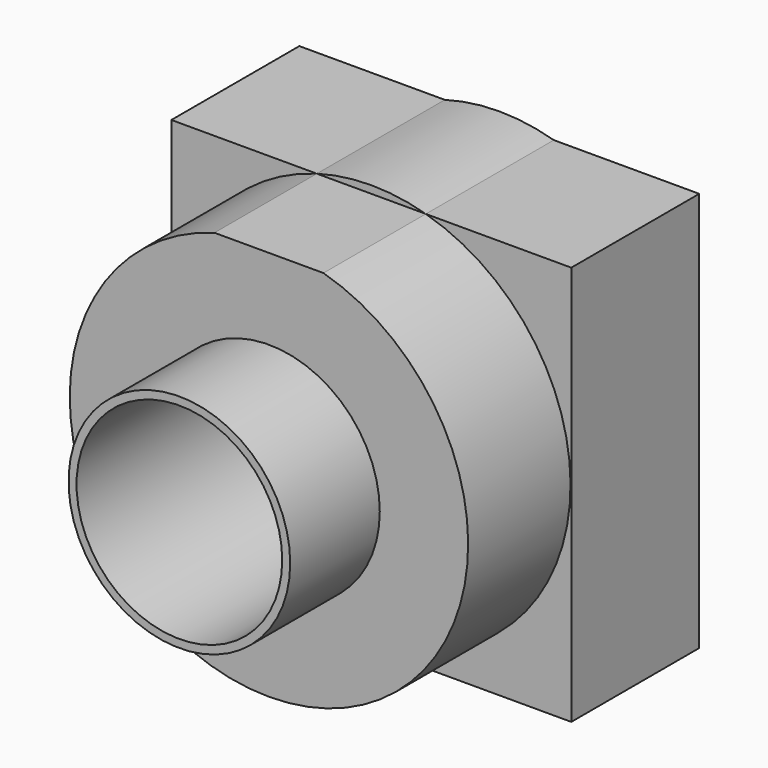
from build123d import *

# Parameters (mm, degrees)
F1_DEPTH = 10
F0_R     = 6.9283238466
F2_DEPTH = 25
F3_DEPTH = 18
F4_T     = -0.5


with BuildPart() as f1:
    # F0 (on Front) → F1 (new body)
    with BuildSketch(Plane.XZ):
        with BuildLine():
            Line((-37.0665900409, -0.9545833454), (-12.0665900409, -0.9545833454))
            Line((-12.0665900409, -0.9545833454), (-12.0665900409, 24.0454166546))
            Line((-12.0665900409, 24.0454166546), (-21.1584322736, 24.0454166546))
            ThreePointArc((-21.1584322736, 24.0454166546), (-14.6281833208, 19.5722570073), (-12.1126991035, 12.0672155172))
            ThreePointArc((-12.1126991035, 12.0672155172), (-32.0712690603, 2.1291712678), (-27.9740228668, 24.0454166546))
            Line((-27.9740228668, 24.0454166546), (-37.0665900409, 24.0454166546))
            Line((-37.0665900409, 24.0454166546), (-37.0665900409, -0.9545833454))
        make_face()
    extrude(amount=F1_DEPTH)


with BuildPart() as f1b:
    # F0 (on Front) → F1, piece 2 (new body)
    with BuildSketch(Plane.XZ):
        with BuildLine():
            Line((-27.9740228668, 24.0454166546), (-21.1584322736, 24.0454166546))
            ThreePointArc((-21.1584322736, 24.0454166546), (-24.5662275702, 24.5207439839), (-27.9740228668, 24.0454166546))
        make_face()
    extrude(amount=F1_DEPTH)


with BuildPart() as f2:
    # F0 (on Front) → F2 (new body)
    with BuildSketch(Plane.XZ):
        with Locations((-24.5662275702, 12.0672155172)):
            Circle(F0_R)
    extrude(amount=F2_DEPTH)

    # F4
    f4_openings = [f2.faces().sort_by_distance(p)[0] for p in [
        (-24.566228, -25, 12.067216),
    ]]
    offset(amount=F4_T, openings=f4_openings)


with BuildPart() as f3:
    # F0 (on Front) → F3 (new body)
    with BuildSketch(Plane.XZ):
        with BuildLine():
            ThreePointArc((-12.1126991035, 12.0672155172), (-14.6281833208, 19.5722570073), (-21.1584322736, 24.0454166546))
            Line((-21.1584322736, 24.0454166546), (-27.9740228668, 24.0454166546))
            ThreePointArc((-27.9740228668, 24.0454166546), (-32.0712690603, 2.1291712678), (-12.1126991035, 12.0672155172))
        make_face()
        with Locations((-24.5662275702, 12.0672155172)):
            Circle(F0_R, mode=Mode.SUBTRACT)
    extrude(amount=F3_DEPTH)


solid = Compound([f1.part, f1b.part, f2.part, f3.part])
